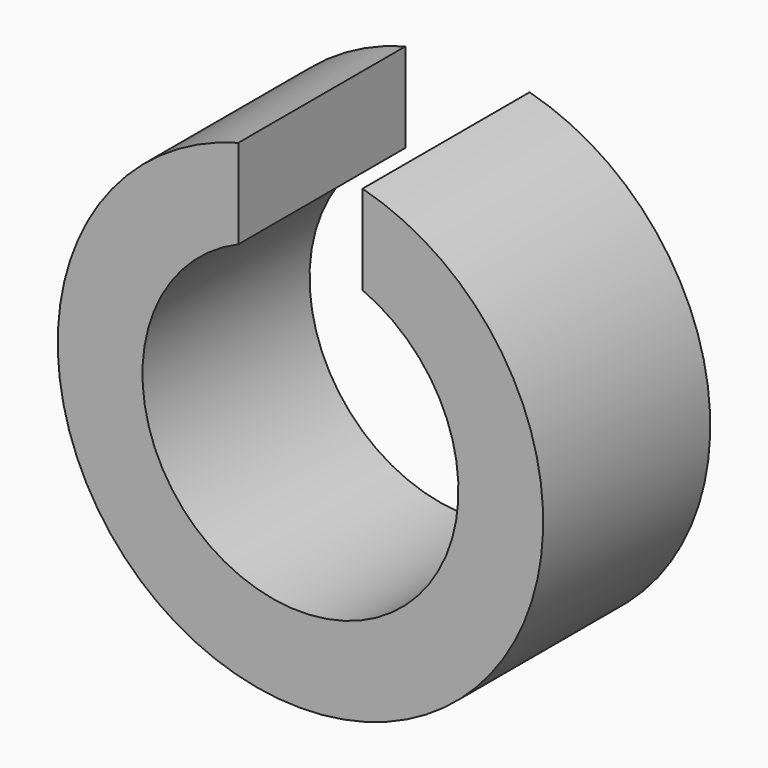
from build123d import *

# Parameters (mm, degrees)
F1_R     = 21.49983
F1_R_2   = 13.9954
F2_DEPTH = 9.24941
F4_DEPTH = 25.4


with BuildPart() as f2:
    # F1 (on face) → F2 (new body, symmetric)
    with BuildSketch(Plane.XZ):
        Circle(F1_R)
        Circle(F1_R_2, mode=Mode.SUBTRACT)
    extrude(amount=F2_DEPTH, both=True)

    # F3 (on face) → F4 (cut)
    with BuildSketch(Plane.XZ.offset(9.24941)):
        Polygon((5.4991, 21.49983), (0, 21.49983), (-5.4991, 21.49983), (-5.4991, 12.869775), (5.4991, 12.869775), align=None)
    extrude(amount=-F4_DEPTH, mode=Mode.SUBTRACT)


solid = f2.part
